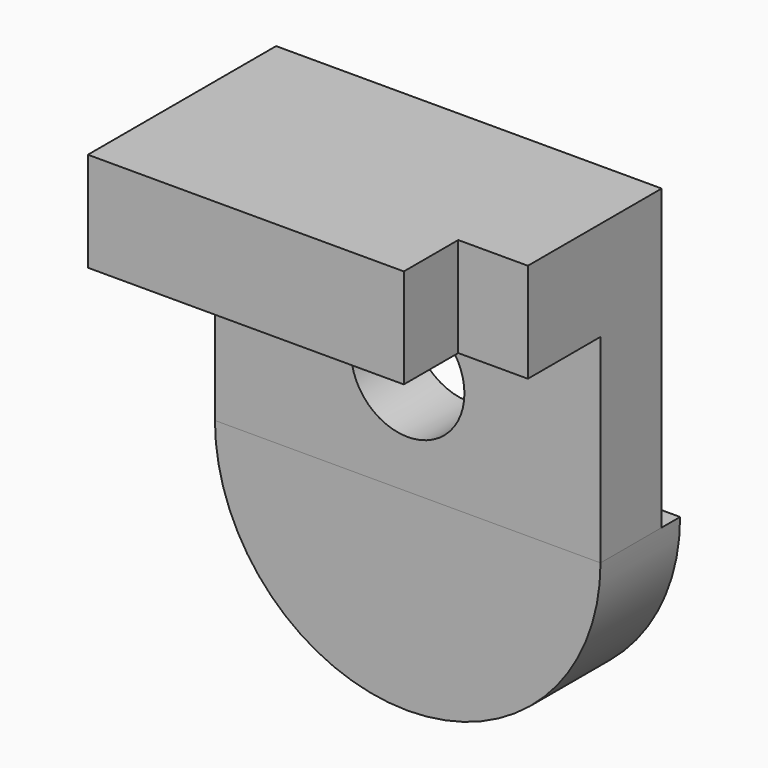
from build123d import *

# Parameters (mm, degrees)
F0_W     = 98.428428
F0_H     = 60.050358
F1_DEPTH = 25.4
F2_W     = 17.78
F2_H     = 17.78
F3_DEPTH = 25.4
F4_W     = 98.428428
F4_H     = 19.515073
F5_DEPTH = 50.8
F6_R     = 14.476292
F7_DEPTH = 50.8
F9_DEPTH = 25.4


with BuildPart() as f1:
    # F0 (on Top) → F1 (new body)
    with BuildSketch(Plane.XY):
        Rectangle(F0_W, F0_H)
    extrude(amount=F1_DEPTH)

    # F2 (on Top) → F3 (cut)
    with BuildSketch(Plane.XY):
        with Locations((40.324214, -21.55618)):
            Rectangle(F2_W, F2_H)
    extrude(amount=F3_DEPTH, mode=Mode.SUBTRACT)

    # F4 (on Top) → F5 (join)
    with BuildSketch(Plane.XY):
        with Locations((0, 20.267643)):
            Rectangle(F4_W, F4_H)
    extrude(amount=-F5_DEPTH)

    # F6 (on Front) → F7 (cut)
    with BuildSketch(Plane.XZ):
        with Locations((0, -24.036856)):
            Circle(F6_R)
    extrude(amount=-F7_DEPTH, mode=Mode.SUBTRACT)

    # F8 (on face) → F9 (join)
    with BuildSketch(Plane.XZ.offset(-10.510106)):
        with BuildLine():
            ThreePointArc((-49.214214, -50.8), (0, -100.014214), (49.214214, -50.8))
            Line((49.214214, -50.8), (-49.214214, -50.8))
        make_face()
    extrude(amount=-F9_DEPTH)


solid = f1.part
